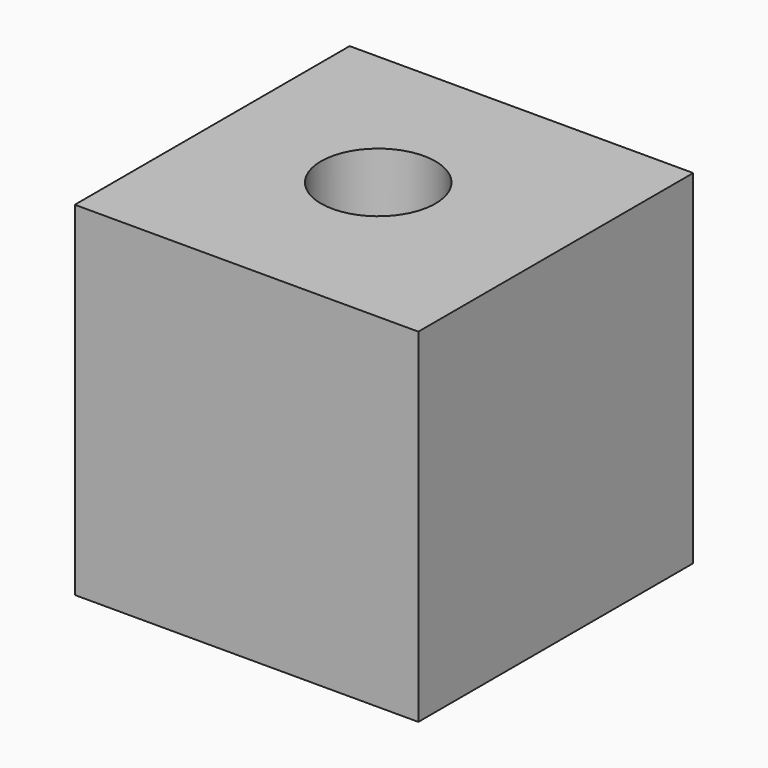
from build123d import *

# Parameters (mm, degrees)
F0_W     = 76.2
F0_H     = 76.2
F1_DEPTH = 76.2
F3_D     = 25.4


with BuildPart() as f1:
    # F0 (on Front) → F1 (new body)
    with BuildSketch(Plane.XZ):
        Rectangle(F0_W, F0_H)
    extrude(amount=F1_DEPTH)

    # F3 (through all)
    with Locations(Plane.XY.offset(38.1)):
        with Locations((-2.288943, -36.836617)):
            Hole(F3_D / 2)


solid = f1.part
